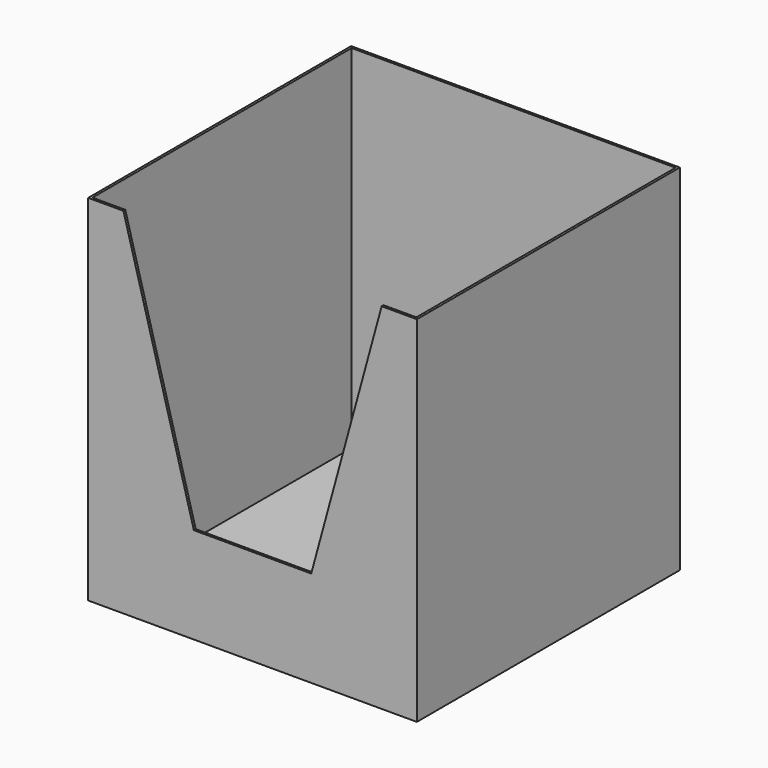
from build123d import *

# Parameters (mm, degrees)
F0_W     = 355.6
F0_H     = 355.6
F1_DEPTH = 383.54
F2_T     = -2.54
F4_DEPTH = 25.4


with BuildPart() as f1:
    # F0 (on Top) → F1 (new body)
    with BuildSketch(Plane.XY):
        Rectangle(F0_W, F0_H)
    extrude(amount=F1_DEPTH)

    # F2
    f2_openings = [f1.faces().sort_by_distance(p)[0] for p in [
        (0, 0, 383.54),
    ]]
    offset(amount=F2_T, openings=f2_openings)

    # F3 (on face) → F4 (cut)
    with BuildSketch(Plane.XZ.offset(177.8)):
        Polygon((139.7, 383.54), (-139.7, 383.54), (-63.5, 104.14), (63.5, 104.14), align=None)
    extrude(amount=-F4_DEPTH, mode=Mode.SUBTRACT)


solid = f1.part
